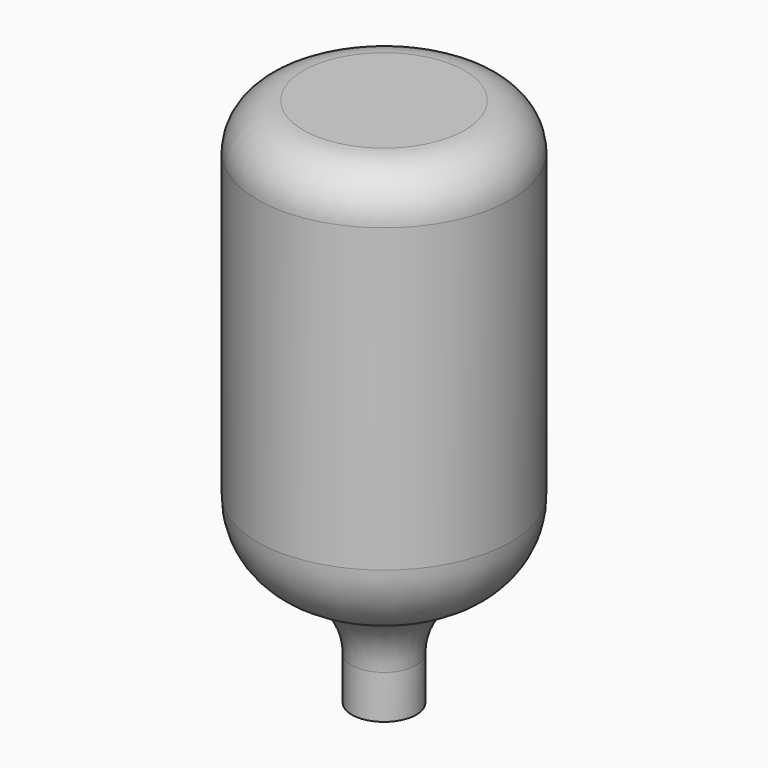
from build123d import *

# Parameters (mm, degrees)
F2_T = -1


with BuildPart() as f1:
    # F0 (on Front) → F1 (revolve)
    with BuildSketch(Plane.XZ):
        with BuildLine():
            Line((0, 230), (0, 0))
            Line((0, 0), (14, 0))
            Line((14, 0), (14, 18.8783))
            ThreePointArc((14, 18.8783), (19.177554, 35.726034), (32.923077, 46.758432))
            ThreePointArc((32.923077, 46.758432), (48.959521, 59.629563), (55, 79.285253))
            Line((55, 79.285253), (55, 210))
            ThreePointArc((55, 210), (49.142136, 224.142136), (35, 230))
            Line((35, 230), (0, 230))
        make_face()
    revolve(axis=Axis((0, 0, 115), (0, 0, 1)))

    # F2
    f2_openings = [f1.faces().sort_by_distance(p)[0] for p in [
        (0, 0, 0),
    ]]
    offset(amount=F2_T, openings=f2_openings)


solid = f1.part
